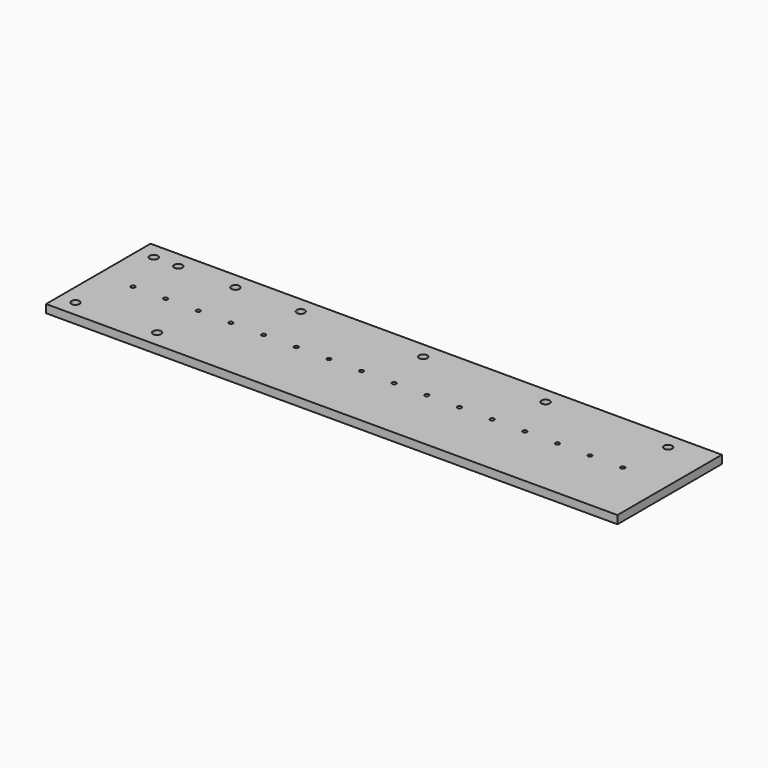
from build123d import *

# Parameters (mm, degrees)
F0_W     = 350
F0_H     = 80
F1_DEPTH = 5
F2_R     = 1.25
F3_DEPTH = 5.001
F5_R     = 2.5
F6_DEPTH = 25
F7_R     = 2.5
F8_DEPTH = 25


with BuildPart() as f1:
    # F0 (on Top) → F1 (new body)
    with BuildSketch(Plane.XY):
        with Locations((175, 40)):
            Rectangle(F0_W, F0_H)
    extrude(amount=F1_DEPTH)

    # F2 (on face) → F3 (cut, through all)
    with BuildSketch(Plane.XY.offset(5)):
        with Locations((21.25, 40)):
            Circle(F2_R)
        with Locations((41.25, 40)):
            Circle(F2_R)
        with Locations((61.25, 40)):
            Circle(F2_R)
        with Locations((81.25, 40)):
            Circle(F2_R)
        with Locations((101.25, 40)):
            Circle(F2_R)
        with Locations((121.25, 40)):
            Circle(F2_R)
        with Locations((141.25, 40)):
            Circle(F2_R)
        with Locations((161.25, 40)):
            Circle(F2_R)
        with Locations((181.25, 40)):
            Circle(F2_R)
        with Locations((201.25, 40)):
            Circle(F2_R)
        with Locations((221.25, 40)):
            Circle(F2_R)
        with Locations((241.25, 40)):
            Circle(F2_R)
        with Locations((261.25, 40)):
            Circle(F2_R)
        with Locations((281.25, 40)):
            Circle(F2_R)
        with Locations((301.25, 40)):
            Circle(F2_R)
        with Locations((321.25, 40)):
            Circle(F2_R)
    extrude(amount=-F3_DEPTH, mode=Mode.SUBTRACT)

    # F5 (on face) → F6 (cut)
    with BuildSketch(Plane.XY.offset(5)):
        with Locations((25, 70)):
            Circle(F5_R)
        with Locations((100, 70)):
            Circle(F5_R)
        with Locations((175, 70)):
            Circle(F5_R)
        with Locations((250, 70)):
            Circle(F5_R)
        with Locations((325, 70)):
            Circle(F5_R)
    extrude(amount=-F6_DEPTH, mode=Mode.SUBTRACT)

    # F7 (on face) → F8 (cut)
    with BuildSketch(Plane.XY.offset(5)):
        with Locations((10, 70)):
            Circle(F7_R)
        with Locations((10, 10)):
            Circle(F7_R)
        with Locations((60, 70)):
            Circle(F7_R)
        with Locations((60, 10)):
            Circle(F7_R)
    extrude(amount=-F8_DEPTH, mode=Mode.SUBTRACT)


solid = f1.part
